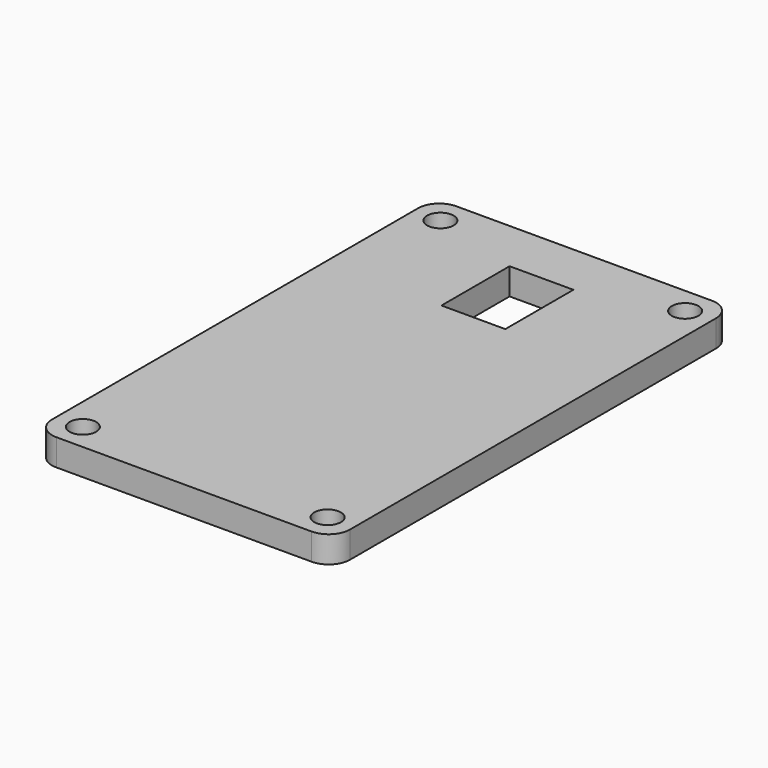
from build123d import *

# Parameters (mm, degrees)
F0_W     = 28
F0_H     = 47
F0_R     = 1.25
F1_DEPTH = 2.5
F2_R     = 2


with BuildPart() as f1:
    # F0 (on Top) → F1 (new body)
    with BuildSketch(Plane.XY):
        with Locations((-1.5, 2.5)):
            Rectangle(F0_W, F0_H)
        with Locations((-13, -18.5)):
            Circle(F0_R, mode=Mode.SUBTRACT)
        with Locations((10, -18.5)):
            Circle(F0_R, mode=Mode.SUBTRACT)
        with Locations((-13, 23.5)):
            Circle(F0_R, mode=Mode.SUBTRACT)
        Polygon((7.5, 21), (7.5, -16), (-10.5, -16), (-10.5, 21), (-4.5, 21), (1.5, 21), align=None, mode=Mode.SUBTRACT)
        with Locations((10, 23.5)):
            Circle(F0_R, mode=Mode.SUBTRACT)
        Polygon((-10.5, -16), (7.5, -16), (7.5, 21), (1.5, 21), (1.5, 13), (-4.5, 13), (-4.5, 21), (-10.5, 21), align=None)
    extrude(amount=F1_DEPTH)

    # F2
    f2_edges = [f1.edges().sort_by_distance(p)[0] for p in [
        (-15.5, 26, 1.25),
        (12.5, 26, 1.25),
        (12.5, -21, 1.25),
        (-15.5, -21, 1.25),
    ]]
    fillet(f2_edges, radius=F2_R)


solid = f1.part
